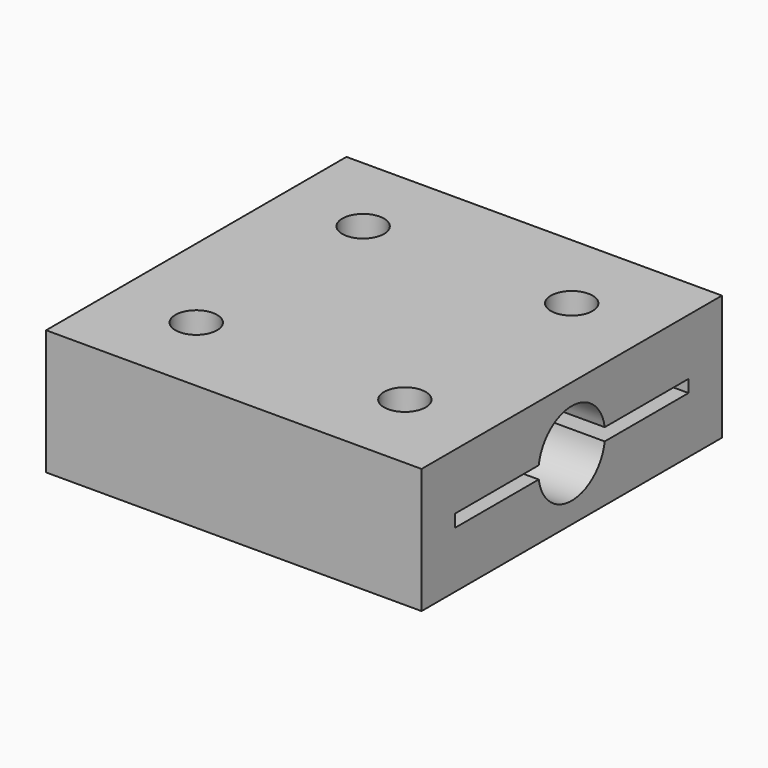
from build123d import *

# Parameters (mm, degrees)
F0_W     = 45
F0_H     = 45
F0_R     = 2.5
F1_DEPTH = 15
F3_DEPTH = 50


with BuildPart() as f1:
    # F0 (on Top) → F1 (new body)
    with BuildSketch(Plane.XY):
        with Locations((22.5, -22.5)):
            Rectangle(F0_W, F0_H)
        with Locations((10, -35)):
            Circle(F0_R, mode=Mode.SUBTRACT)
        with Locations((35, -35)):
            Circle(F0_R, mode=Mode.SUBTRACT)
        with Locations((10, -10)):
            Circle(F0_R, mode=Mode.SUBTRACT)
        with Locations((35, -10)):
            Circle(F0_R, mode=Mode.SUBTRACT)
    extrude(amount=F1_DEPTH)

    # F2 (on Right) → F3 (cut)
    with BuildSketch(Plane.YZ):
        with BuildLine():
            Line((-17.55657, 6.75), (-5, 6.75))
            Line((-5, 6.75), (-5, 8.25))
            Line((-5, 8.25), (-17.55657, 8.25))
            ThreePointArc((-17.55657, 8.25), (-22.5, 12.5), (-27.44343, 8.25))
            Line((-27.44343, 8.25), (-40, 8.25))
            Line((-40, 8.25), (-40, 6.75))
            Line((-40, 6.75), (-27.44343, 6.75))
            ThreePointArc((-27.44343, 6.75), (-22.5, 2.5), (-17.55657, 6.75))
        make_face()
    extrude(amount=F3_DEPTH, mode=Mode.SUBTRACT)


solid = f1.part
